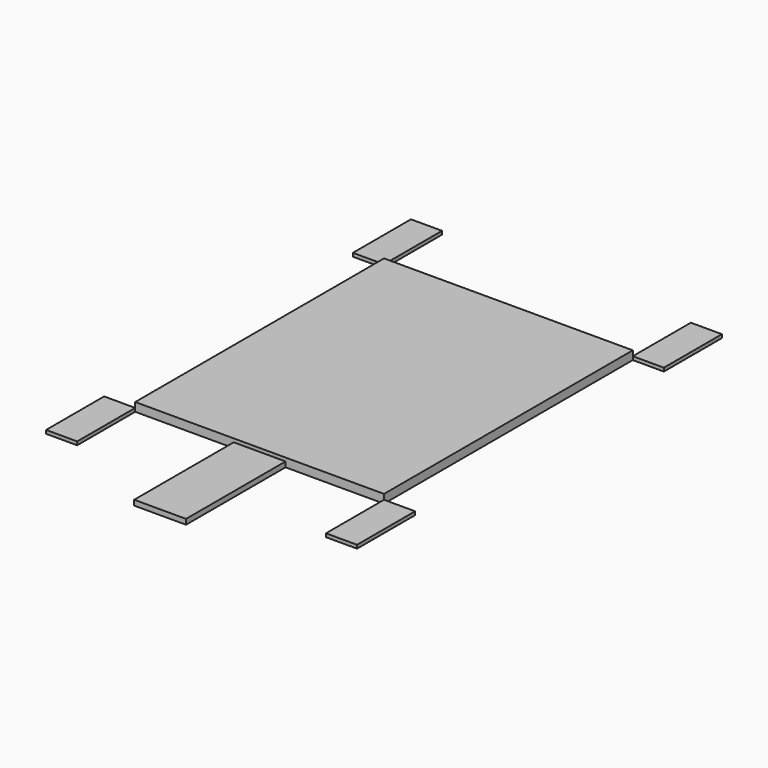
from build123d import *

# Parameters (mm, degrees)
F0_W     = 3657.6
F0_H     = 4572
F1_DEPTH = 127
F3_START = -50.8
F2_W     = 762
F2_H     = 1828.8
F3_DEPTH = 76.2
F5_START = -76.2
F4_W     = 457.2
F4_H     = 1066.8
F5_DEPTH = 50.8
F7_START = -76.2
F6_W     = 457.2
F6_H     = 1066.8
F7_DEPTH = 50.8


with BuildPart() as f1:
    # F0 (on Top) → F1 (new body)
    with BuildSketch(Plane.XY):
        with Locations((1828.8, 2286)):
            Rectangle(F0_W, F0_H)
    extrude(amount=F1_DEPTH)


with BuildPart() as f3:
    # F2 (on face) → F3 (new body)
    with BuildSketch(Plane.XY.offset(127).offset(F3_START)):
        with Locations((1828.8, -914.4)):
            Rectangle(F2_W, F2_H)
    extrude(amount=-F3_DEPTH)


with BuildPart() as f5:
    # F4 (on face) → F5 (new body)
    with BuildSketch(Plane.XY.offset(127).offset(F5_START)):
        with Locations((-228.6, -533.4)):
            Rectangle(F4_W, F4_H)
    extrude(amount=-F5_DEPTH)


with BuildPart() as f5b:
    # F4 (on face) → F5, piece 2 (new body)
    with BuildSketch(Plane.XY.offset(127).offset(F5_START)):
        with Locations((3886.2, -533.4)):
            Rectangle(F4_W, F4_H)
    extrude(amount=-F5_DEPTH)


with BuildPart() as f7:
    # F6 (on face) → F7 (new body)
    with BuildSketch(Plane.XY.offset(127).offset(F7_START)):
        with Locations((3886.2, 5105.4)):
            Rectangle(F6_W, F6_H)
    extrude(amount=-F7_DEPTH)


with BuildPart() as f7b:
    # F6 (on face) → F7, piece 2 (new body)
    with BuildSketch(Plane.XY.offset(127).offset(F7_START)):
        with Locations((-228.6, 5105.4)):
            Rectangle(F6_W, F6_H)
    extrude(amount=-F7_DEPTH)


solid = Compound([f1.part, f3.part, f5.part, f5b.part, f7.part, f7b.part])
